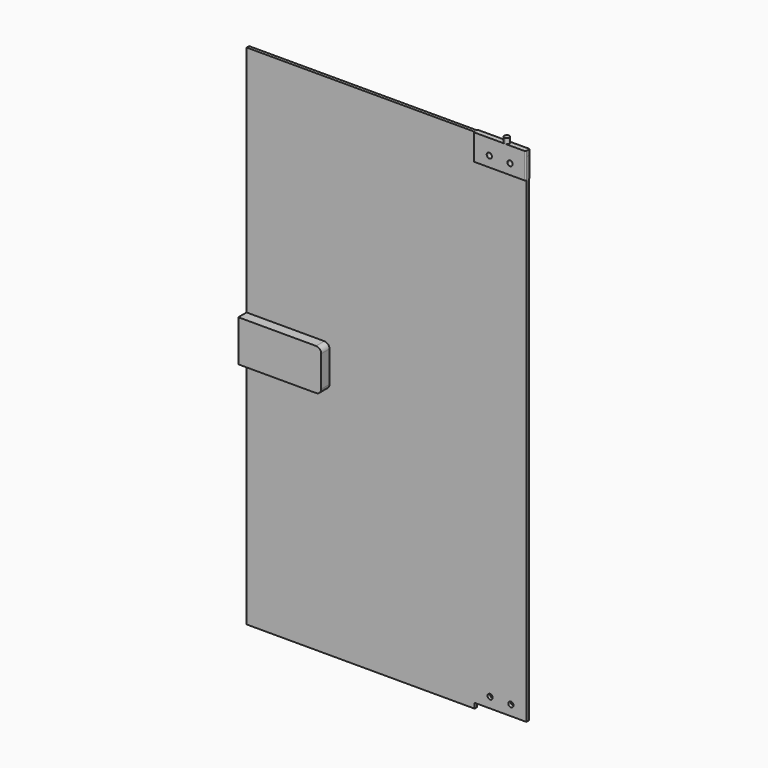
from build123d import *

# Parameters (mm, degrees)
F1_DEPTH  = 50
F3_DEPTH  = 5
F4_R      = 2.5
F5_DEPTH  = 25
F6_R      = 2.5
F6_R_2    = 5
F7_DEPTH  = 1.5
F8_W      = 80
F8_H      = 40
F8_R      = 5
F9_DEPTH  = 10
F10_DEPTH = 3
F11_R     = 5
F12_R     = 1


with BuildPart() as f1:
    # F0 (on Right) → F1 (new body)
    with BuildSketch(Plane.YZ):
        Polygon((1.5, -12.5), (2.5, -12.5), (2.5, 12.5), (-2.5, 12.5), (-2.5, -12.5), (-1.5, -12.5), (-1.5, 7.5), (1.5, 7.5), align=None)
    extrude(amount=-F1_DEPTH)

    # F2 (on face) → F3 (join)
    with BuildSketch(Plane.XY.offset(12.5)):
        with BuildLine():
            ThreePointArc((-20, -2.5), (-18.232233047, -1.767766953), (-17.5, 0))
            ThreePointArc((-17.5, 0), (-18.232233047, 1.767766953), (-20, 2.5))
            ThreePointArc((-20, 2.5), (-22.5, 0), (-20, -2.5))
        make_face()
    extrude(amount=F3_DEPTH)

    # F4 (on face) → F5 (cut)
    with BuildSketch(Plane.XZ.offset(2.5)):
        with Locations((-35, -2.5)):
            Circle(F4_R)
        with Locations((-15, -2.5)):
            Circle(F4_R)
    extrude(amount=-F5_DEPTH, mode=Mode.SUBTRACT)

    # F12
    f12_edges = [f1.edges().sort_by_distance(p)[0] for p in [
        (0, -2.5, 0),
    ]]
    fillet(f12_edges, radius=F12_R)


with BuildPart() as f7:
    # F6 (on Front) → F7 (new body, symmetric)
    with BuildSketch(Plane.XZ):
        Polygon((-50, 7.5), (-50, 12.5), (-270, 12.5), (-270, -232.5), (-270, -477.5), (-50, -477.5), (-50, -472.5), (0, -472.5), (0, -232.5), (0, 7.5), align=None)
        with Locations((-35, -462.5)):
            Circle(F6_R, mode=Mode.SUBTRACT)
        with Locations((-15, -462.5)):
            Circle(F6_R, mode=Mode.SUBTRACT)
        with Locations((-250, -232.5)):
            Circle(F6_R_2, mode=Mode.SUBTRACT)
        with Locations((-220, -232.5)):
            Circle(F6_R_2, mode=Mode.SUBTRACT)
        with Locations((-35, -2.5)):
            Circle(F6_R, mode=Mode.SUBTRACT)
        with Locations((-15, -2.5)):
            Circle(F6_R, mode=Mode.SUBTRACT)
    extrude(amount=F7_DEPTH, both=True)


with BuildPart() as f9:
    # F8 (on face) → F9 (new body)
    with BuildSketch(Plane.XZ.offset(1.5)):
        with Locations((-230, -232.5)):
            Rectangle(F8_W, F8_H)
        with Locations((-250, -232.5)):
            Circle(F8_R, mode=Mode.SUBTRACT)
        with Locations((-220, -232.5)):
            Circle(F8_R, mode=Mode.SUBTRACT)
        with Locations((-250, -232.5)):
            Circle(F8_R)
        with Locations((-220, -232.5)):
            Circle(F8_R)
    extrude(amount=F9_DEPTH)

    # F8 (on face) → F10 (join)
    with BuildSketch(Plane.XZ.offset(1.5)):
        with Locations((-250, -232.5)):
            Circle(F8_R)
        with Locations((-220, -232.5)):
            Circle(F8_R)
    extrude(amount=-F10_DEPTH)

    # F11
    f11_edges = [f9.edges().sort_by_distance(p)[0] for p in [
        (-190, -6.5, -212.5),
        (-190, -6.5, -252.5),
    ]]
    fillet(f11_edges, radius=F11_R)


solid = Compound([f1.part, f7.part, f9.part])
